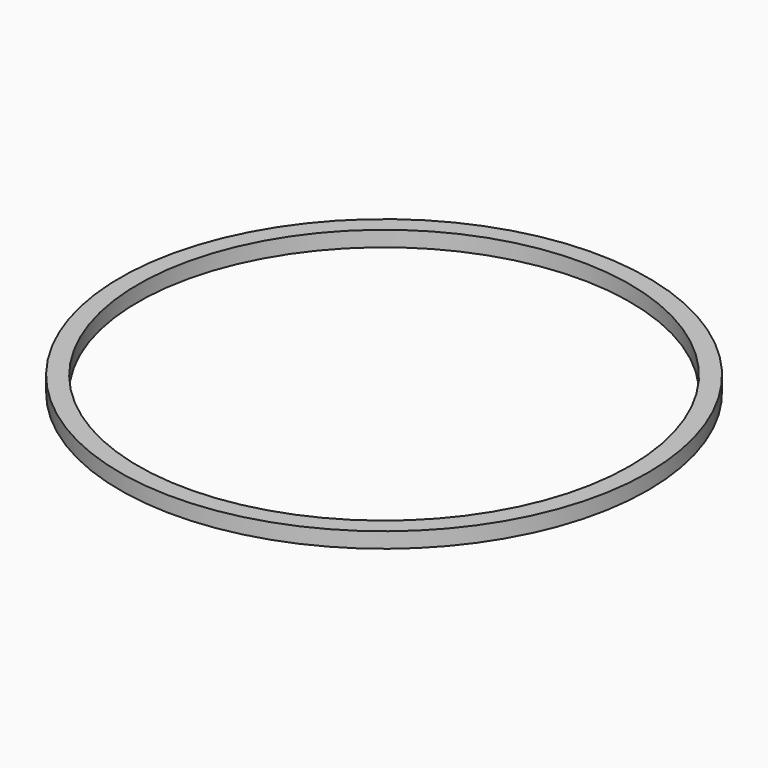
from build123d import *

# Parameters (mm, degrees)
CYLINDER052_R     = 47.75
CYLINDER052_DEPTH = 3
CYLINDER051_R     = 51.25
CYLINDER051_DEPTH = 3


with BuildPart() as flange002:
    # Cylinder052 → Cylinder052 (new body)
    with BuildSketch(Plane(origin=(105, 68, 0), x_dir=(1, 0, 0), z_dir=(0, 0, 1))):
        Circle(CYLINDER052_R)
    extrude(amount=CYLINDER052_DEPTH)


with BuildPart() as centeringringgroove:
    # Cylinder051 → Cylinder051 (new body)
    with BuildSketch(Plane(origin=(105, 68, 0), x_dir=(1, 0, 0), z_dir=(0, 0, 1))):
        Circle(CYLINDER051_R)
    extrude(amount=CYLINDER051_DEPTH)

    # Cut001: cut Flange002
    add(flange002.part, mode=Mode.SUBTRACT)


solid = centeringringgroove.part
